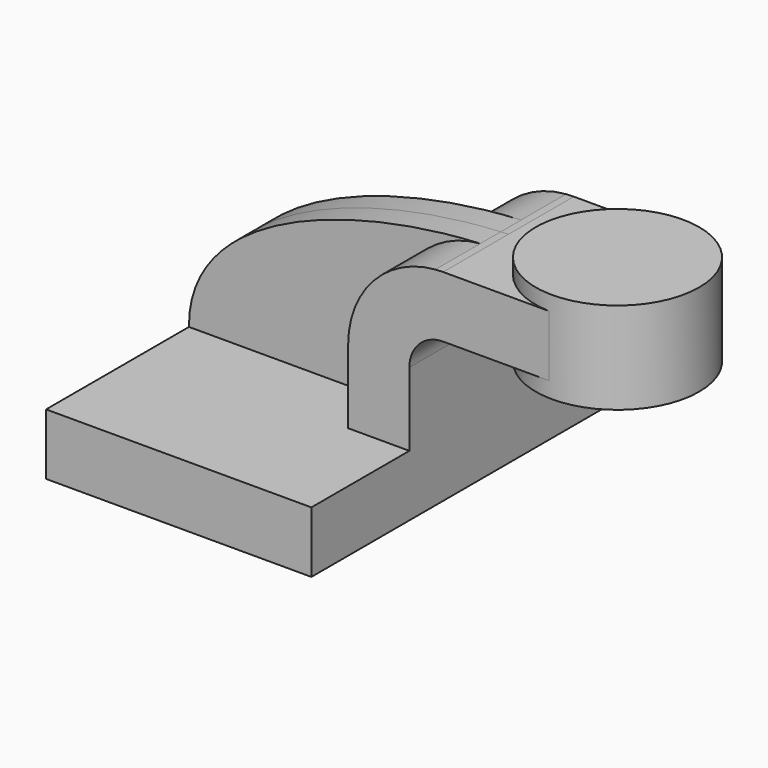
from build123d import *

# Parameters (mm, degrees)
F1_DEPTH = 63.5
F2_DEPTH = 25.4
F0_W     = 25.3816735625
F0_H     = 19.05
F3_DEPTH = 25.4
F5_DEPTH = 7.9375


with BuildPart() as f1:
    # F0 (on Front) → F1 (new body, symmetric)
    with BuildSketch(Plane.XZ):
        Polygon((41.275, -9.525), (41.275, 9.525), (22.225, 9.525), (-41.275, 9.525), (-41.275, -9.525), align=None)
    extrude(amount=F1_DEPTH, both=True)

    # F0 (on Front) → F2 (join, symmetric)
    with BuildSketch(Plane.XZ):
        with BuildLine():
            Line((22.225, 9.525), (41.275, 9.525))
            Line((41.275, 9.525), (41.275, 32.3611232806))
            ThreePointArc((41.275, 32.3611232806), (44.3545017732, 39.7956982268), (51.7890767194, 42.8752))
            Line((51.7890767194, 42.8752), (60.325, 42.8752))
            Line((60.325, 42.8752), (60.325, 61.9252))
            Line((60.325, 61.9252), (51.7890767194, 61.9252))
            add(Edge.make_bspline(
                [(49.378379009, 61.8267501842), (50.188059931, 61.8657540614), (50.9918272392, 61.8985579588), (51.7890767194, 61.9252)],
                knots=[104.6145771786, 104.6145771786, 104.6145771786, 104.6145771786, 106.8021691525, 106.8021691525, 106.8021691525, 106.8021691525], degree=3))
            ThreePointArc((49.378379009, 61.8267501842), (30.0485076798, 52.3956507296), (22.225, 32.3611232806))
            Line((22.225, 32.3611232806), (22.225, 9.525))
        make_face()
    extrude(amount=F2_DEPTH, both=True)

    # F0 (on Front) → F3 (join, symmetric)
    with BuildSketch(Plane.XZ):
        with Locations((73.0158367813, 52.4002)):
            Rectangle(F0_W, F0_H)
    extrude(amount=F3_DEPTH, both=True)

    # F0 (on Front) → F4 (revolve)
    with BuildSketch(Plane.XZ):
        Polygon((85.7066735625, 61.9252), (85.7066735625, 42.8752), (85.7066735625, 38.1), (111.125, 38.1), (111.125, 66.675), (85.7066735625, 66.675), align=None)
    revolve(axis=Axis((85.7066735625, 0, 52.3875), (0, 0, -1)))

    # F0 (on Front) → F5 (join, symmetric)
    with BuildSketch(Plane.XZ):
        with BuildLine():
            Line((-41.275, 9.525), (22.225, 9.525))
            Line((22.225, 9.525), (22.225, 32.3611232806))
            ThreePointArc((22.225, 32.3611232806), (30.0485076798, 52.3956507296), (49.378379009, 61.8267501842))
            add(Edge.make_bspline(
                [(-41.275, 9.525), (-41.5863992268, 43.9173953964), (10.6579831052, 59.9615147216), (49.378379009, 61.8267501842)],
                knots=[0, 0, 0, 0, 104.6145771786, 104.6145771786, 104.6145771786, 104.6145771786], degree=3))
        make_face()
    extrude(amount=F5_DEPTH, both=True)


solid = f1.part
